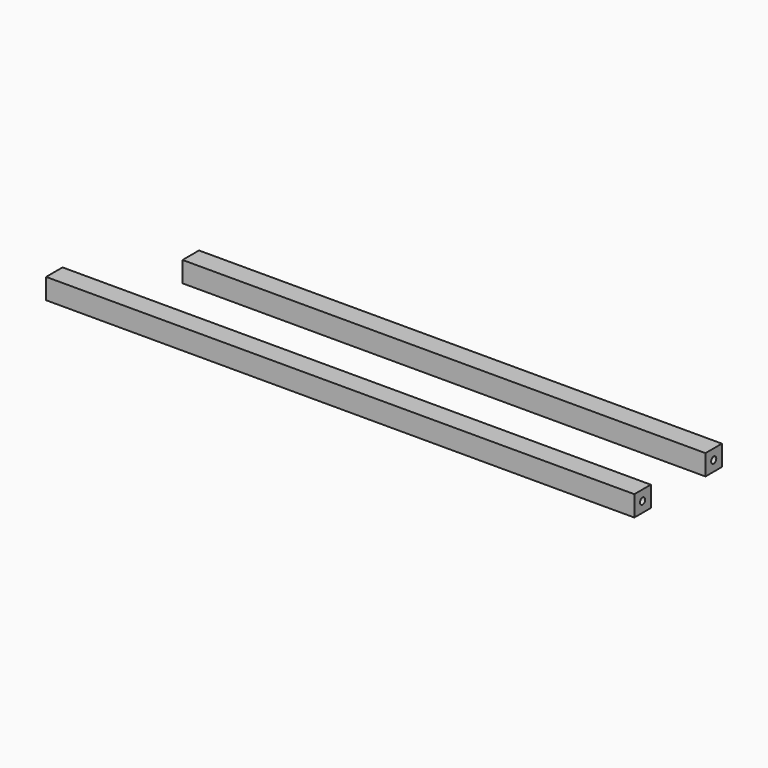
from build123d import *

# Parameters (mm, degrees)
F0_W     = 203.3
F0_H     = 8
F0_W_2   = 228.7
F1_DEPTH = 8
F2_R     = 1.25
F3_DEPTH = 228.701


with BuildPart() as f1:
    # F0 (on Top) → F1 (new body)
    with BuildSketch(Plane.XY):
        with Locations((0.930868, 16.424069)):
            Rectangle(F0_W, F0_H)
        with Locations((-11.769132, -18.138862)):
            Rectangle(F0_W_2, F0_H)
    extrude(amount=F1_DEPTH)

    # F2 (on face) → F3 (cut, through all)
    with BuildSketch(Plane.YZ.offset(102.580868)):
        with Locations((16.424069, 4)):
            Circle(F2_R)
        with Locations((-18.138862, 4)):
            Circle(F2_R)
    extrude(amount=-F3_DEPTH, mode=Mode.SUBTRACT)


solid = f1.part
